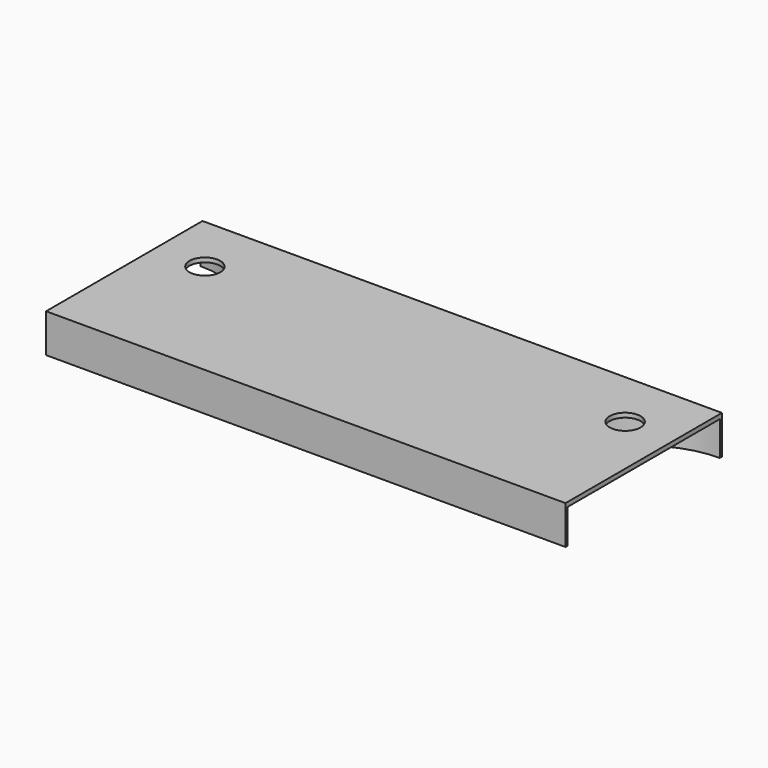
from build123d import *

# Parameters (mm, degrees)
F0_R     = 25.7
F0_R_2   = 25
F0_R_3   = 4.05
F1_DEPTH = 9.16
F3_W     = 136.57
F3_H     = 51.4
F4_DEPTH = 9.16
F2_R     = 25
F2_R_2   = 4.05
F5_DEPTH = 9
F6_DEPTH = 25
F7_W     = 25.7
F7_H     = 74.087158006
F7_H_2   = 74.0871579793
F8_DEPTH = 25
F9_DEPTH = 1


with BuildPart() as f1:
    # F0 (on Top) → F1 (new body)
    with BuildSketch(Plane.XY):
        Circle(F0_R)
        Circle(F0_R_2, mode=Mode.SUBTRACT)
        Circle(F0_R_2)
        with Locations((13.04, 10.1912168066)):
            Circle(F0_R_3, mode=Mode.SUBTRACT)
    extrude(amount=F1_DEPTH)



with BuildPart() as f1b:
    # F0 (on Top) → F1, piece 2 (new body)
    with BuildSketch(Plane.XY):
        with Locations((136.57, 0)):
            Circle(F0_R)
        with Locations((136.57, 0)):
            Circle(F0_R_2, mode=Mode.SUBTRACT)
        with Locations((136.57, 0)):
            Circle(F0_R_2)
        with Locations((123.53, 10.1912168066)):
            Circle(F0_R_3, mode=Mode.SUBTRACT)
    extrude(amount=F1_DEPTH)


with BuildPart() as f1_1:
    add(f1.part)

    add(f1b.part)  # F4 merges F1b
    # F3 (on Top) → F4 (join)
    with BuildSketch(Plane.XY):
        with Locations((68.285, 0)):
            Rectangle(F3_W, F3_H)
    extrude(amount=F4_DEPTH)

    # F2 (on Top) → F5 (cut)
    with BuildSketch(Plane.XY):
        Circle(F2_R)
        with Locations((13.04, 10.1912168066)):
            Circle(F2_R_2, mode=Mode.SUBTRACT)
        with Locations((136.57, 0)):
            Circle(F2_R)
        with Locations((123.53, 10.1912168066)):
            Circle(F2_R_2, mode=Mode.SUBTRACT)
    extrude(amount=F5_DEPTH, mode=Mode.SUBTRACT)

    # F6 (cut): faces of the model
    f6_faces = [f1_1.faces().sort_by_distance(p)[0] for p in [
        (123.53, 10.1912168066, 0),
        (13.04, 10.1912168066, 0),
    ]]
    extrude(f6_faces, amount=-F6_DEPTH, mode=Mode.SUBTRACT)

    # F7 (on Top) → F8 (cut)
    with BuildSketch(Plane.XY):
        with Locations((-12.85, -2.68e-08)):
            Rectangle(F7_W, F7_H)
        with Locations((149.42, 1.34e-08)):
            Rectangle(F7_W, F7_H_2)
    extrude(amount=F8_DEPTH, mode=Mode.SUBTRACT)

    # F9 (add): a face of the model
    f9_faces = [f1_1.faces().sort_by_distance(p)[0] for p in [
        (68.285, -0.1518521362, 9.16),
    ]]
    extrude(f9_faces, amount=F9_DEPTH)


solid = f1_1.part
